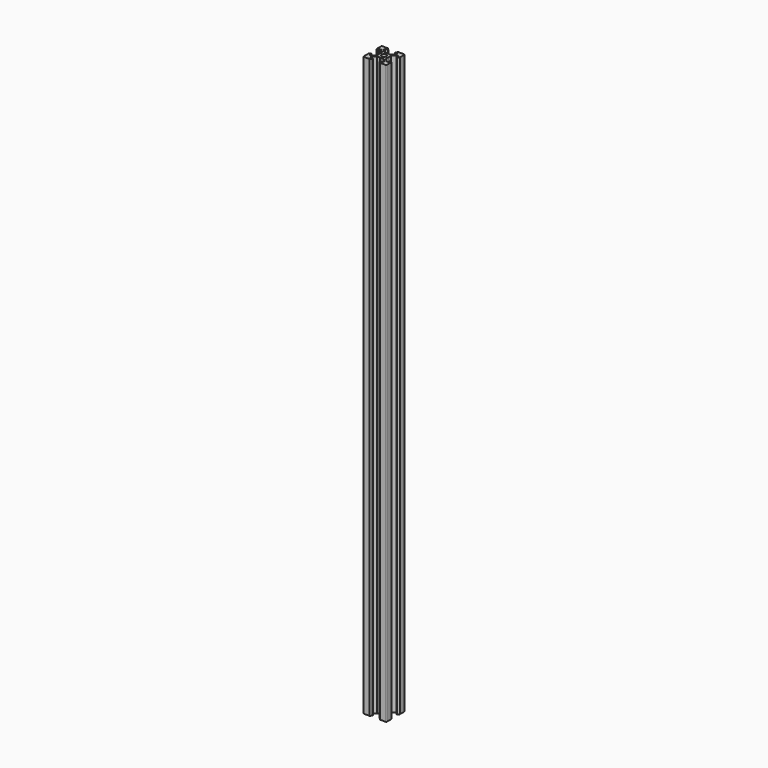
from build123d import *

# Parameters (mm, degrees)
SKETCH_R  = 2.1
PAD_DEPTH = 500


with BuildPart() as part:
    # Sketch → Pad (new body)
    with BuildSketch(Plane.XY):
        with BuildLine():
            Line((-10, 4.58), (-10, 9.5))
            ThreePointArc((-9.5, 10), (-9.853553, 9.853553), (-10, 9.5))
            Line((-9.5, 10), (-4.58, 10))
            Line((-4.58, 10), (-3.125, 8.545))
            Line((-3.125, 8.545), (-3.125, 8.2))
            Line((-5.5, 8.2), (-3.125, 8.2))
            Line((-5.5, 8.2), (-5.5, 6.56066))
            Line((-5.5, 6.56066), (-2.83934, 3.9))
            Line((-0.125, 3.9), (-2.83934, 3.9))
            ThreePointArc((-0.125, 3.9), (0, 3.775), (0.125, 3.9))
            Line((0.125, 3.9), (2.83934, 3.9))
            Line((2.83934, 3.9), (5.5, 6.56066))
            Line((5.5, 6.56066), (5.5, 8.2))
            Line((5.5, 8.2), (3.125, 8.2))
            Line((3.125, 8.2), (3.125, 8.545))
            Line((3.125, 8.545), (4.58, 10))
            Line((4.58, 10), (9.5, 10))
            ThreePointArc((10, 9.5), (9.853553, 9.853553), (9.5, 10))
            Line((10, 9.5), (10, 4.58))
            Line((10, 4.58), (8.545, 3.125))
            Line((8.545, 3.125), (8.2, 3.125))
            Line((8.2, 3.125), (8.2, 5.5))
            Line((8.2, 5.5), (6.56066, 5.5))
            Line((6.56066, 5.5), (3.9, 2.83934))
            Line((3.9, 2.83934), (3.9, 0.125))
            ThreePointArc((3.9, 0.125), (3.775, 0), (3.9, -0.125))
            Line((3.9, -0.125), (3.9, -2.83934))
            Line((3.9, -2.83934), (6.56066, -5.5))
            Line((6.56066, -5.5), (8.2, -5.5))
            Line((8.2, -5.5), (8.2, -3.125))
            Line((8.2, -3.125), (8.545, -3.125))
            Line((8.545, -3.125), (10, -4.58))
            Line((10, -4.58), (10, -9.5))
            ThreePointArc((9.5, -10), (9.853553, -9.853553), (10, -9.5))
            Line((9.5, -10), (4.58, -10))
            Line((4.58, -10), (3.125, -8.545))
            Line((3.125, -8.545), (3.125, -8.2))
            Line((3.125, -8.2), (5.5, -8.2))
            Line((5.5, -8.2), (5.5, -6.56066))
            Line((2.83934, -3.9), (5.5, -6.56066))
            Line((0.125, -3.9), (2.83934, -3.9))
            ThreePointArc((0.125, -3.9), (0, -3.775), (-0.125, -3.9))
            Line((-0.125, -3.9), (-2.83934, -3.9))
            Line((-2.83934, -3.9), (-5.5, -6.56066))
            Line((-5.5, -6.56066), (-5.5, -8.2))
            Line((-5.5, -8.2), (-3.125, -8.2))
            Line((-3.125, -8.545), (-3.125, -8.2))
            Line((-4.58, -10), (-3.125, -8.545))
            Line((-9.5, -10), (-4.58, -10))
            ThreePointArc((-10, -9.5), (-9.853553, -9.853553), (-9.5, -10))
            Line((-10, -4.58), (-10, -9.5))
            Line((-8.545, -3.125), (-10, -4.58))
            Line((-8.2, -3.125), (-8.545, -3.125))
            Line((-8.2, -5.5), (-8.2, -3.125))
            Line((-6.56066, -5.5), (-8.2, -5.5))
            Line((-3.9, -2.83934), (-6.56066, -5.5))
            Line((-3.9, -0.125), (-3.9, -2.83934))
            ThreePointArc((-3.9, -0.125), (-3.775, 0), (-3.9, 0.125))
            Line((-3.9, 2.83934), (-3.9, 0.125))
            Line((-6.56066, 5.5), (-3.9, 2.83934))
            Line((-8.2, 5.5), (-6.56066, 5.5))
            Line((-8.2, 5.5), (-8.2, 3.125))
            Line((-8.545, 3.125), (-8.2, 3.125))
            Line((-10, 4.58), (-8.545, 3.125))
        make_face()
        Circle(SKETCH_R, mode=Mode.SUBTRACT)
    extrude(amount=PAD_DEPTH)


solid = part.part
